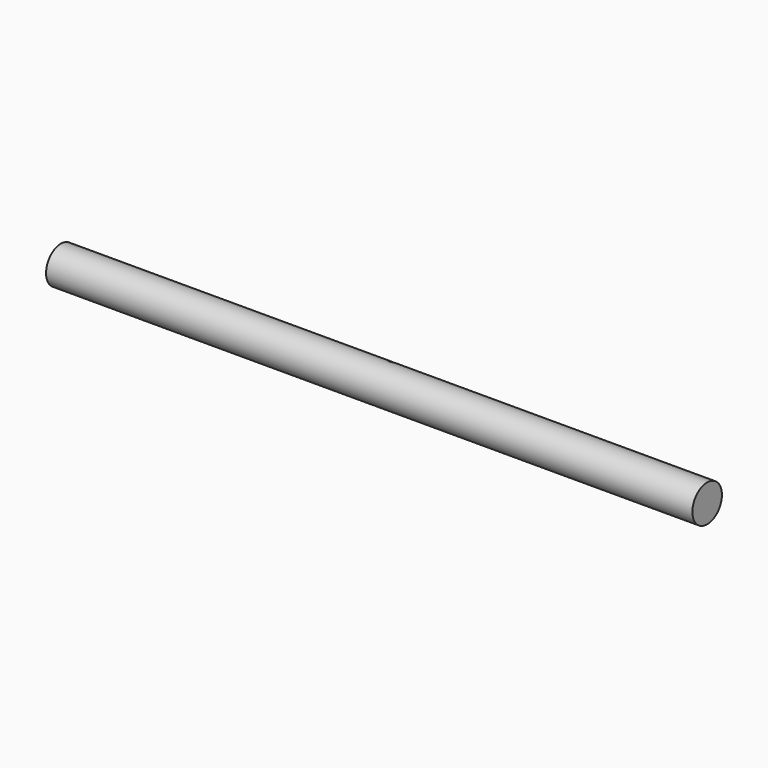
from build123d import *

# Parameters (mm, degrees)
F1_DEPTH = 350
F2_R     = 11
F3_DEPTH = 25.4
F5_R     = 3
F6_DEPTH = 47.3215082123


with BuildPart() as f1:
    # F0 (on Right) → F1 (new body, symmetric)
    with BuildSketch(Plane.YZ):
        with BuildLine():
            ThreePointArc((10, 17.3205080757), (-17.3205080757, -10), (20, 0))
            ThreePointArc((20, 0), (17.3205080757, 10), (10, 17.3205080757))
        make_face()
    extrude(amount=F1_DEPTH, both=True)

    # F2 (on Top) → F3 (cut)
    with BuildSketch(Plane.XY):
        with Locations((-195, 0)):
            Circle(F2_R)
        with Locations((195, 0)):
            Circle(F2_R)
    extrude(amount=-F3_DEPTH, mode=Mode.SUBTRACT)

    # F5 (on face) → F6 (cut, through all)
    with BuildSketch(Plane(origin=(0, 10, 17.3205080757), x_dir=(1, 0, 0), z_dir=(0, 0.5, 0.8660254038))):
        Circle(F5_R)
    extrude(amount=-F6_DEPTH, mode=Mode.SUBTRACT)


solid = f1.part
